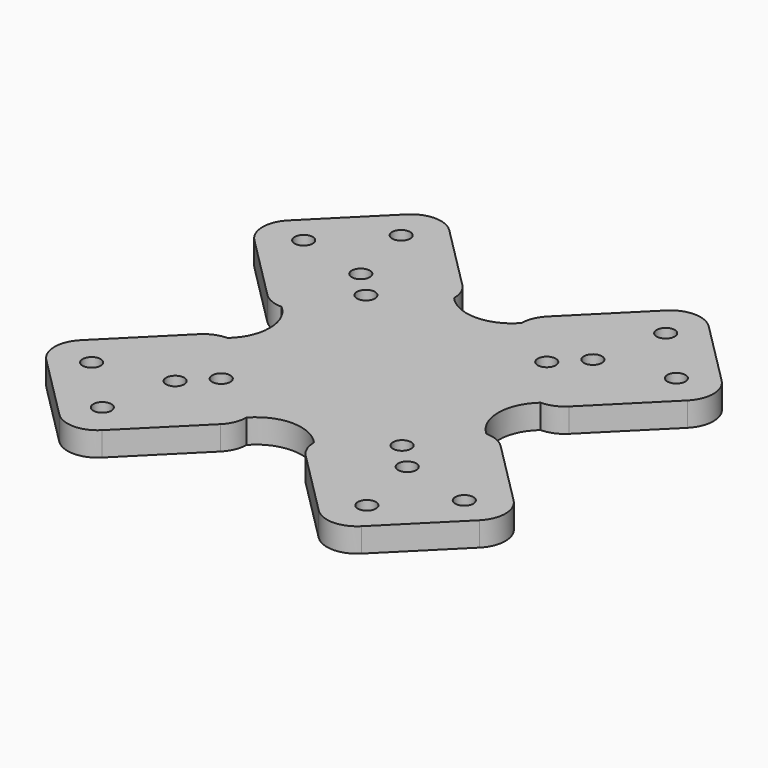
from build123d import *

# Parameters (mm, degrees)
F0_R     = 1.5
F1_DEPTH = 4


with BuildPart() as f1:
    # F0 (on Top) → F1 (new body)
    with BuildSketch(Plane.XY):
        with BuildLine():
            ThreePointArc((-21.506534, -5.585449), (-23.420395, -5.963817), (-25.043776, -7.045787))
            Line((-25.043776, -7.045787), (-35.985417, -17.961908))
            ThreePointArc((-35.985417, -17.961908), (-37.454011, -21.495729), (-35.993673, -25.032971))
            Line((-35.993673, -25.032971), (-25.116951, -35.935122))
            ThreePointArc((-25.116951, -35.935122), (-21.583129, -37.403715), (-18.045888, -35.943378))
            Line((-18.045888, -35.943378), (-7.104246, -25.027257))
            ThreePointArc((-7.104246, -25.027257), (-6.018489, -23.406407), (-5.635653, -21.493435))
            ThreePointArc((-5.635653, -21.493435), (-0.022157, -18.977104), (5.585447, -21.506537))
            ThreePointArc((5.585447, -21.506537), (5.963815, -23.420397), (7.045784, -25.043778))
            Line((7.045784, -25.043778), (17.961905, -35.98542))
            ThreePointArc((17.961905, -35.98542), (21.495727, -37.454013), (25.032968, -35.993676))
            Line((25.032968, -35.993676), (35.93512, -25.116953))
            ThreePointArc((35.93512, -25.116953), (37.403713, -21.583131), (35.943376, -18.04589))
            Line((35.943376, -18.04589), (25.027254, -7.104248))
            ThreePointArc((25.027254, -7.104248), (23.406404, -6.018491), (21.493433, -5.635655))
            ThreePointArc((21.493433, -5.635655), (18.977102, -0.022159), (21.506534, 5.585445))
            ThreePointArc((21.506534, 5.585445), (23.420395, 5.963813), (25.043776, 7.045782))
            Line((25.043776, 7.045782), (35.985417, 17.961903))
            ThreePointArc((35.985417, 17.961903), (37.454011, 21.495725), (35.993673, 25.032966))
            Line((35.993673, 25.032966), (25.116951, 35.935117))
            ThreePointArc((25.116951, 35.935117), (21.583129, 37.40371), (18.045888, 35.943373))
            Line((18.045888, 35.943373), (7.104246, 25.027252))
            ThreePointArc((7.104246, 25.027252), (6.022131, 23.415143), (5.635711, 21.51237))
            ThreePointArc((5.635711, 21.51237), (0.025134, 18.98946), (-5.585444, 21.51237))
            ThreePointArc((-5.585444, 21.51237), (-5.96493, 23.42309), (-7.045784, 25.043773))
            Line((-7.045784, 25.043773), (-17.961905, 35.985415))
            ThreePointArc((-17.961905, 35.985415), (-21.495727, 37.454008), (-25.032968, 35.993671))
            Line((-25.032968, 35.993671), (-35.93512, 25.116948))
            ThreePointArc((-35.93512, 25.116948), (-37.403713, 21.583127), (-35.943376, 18.045885))
            Line((-35.943376, 18.045885), (-25.027254, 7.104244))
            ThreePointArc((-25.027254, 7.104244), (-23.406404, 6.018487), (-21.493433, 5.63565))
            ThreePointArc((-21.493433, 5.63565), (-18.977102, 0.022155), (-21.506534, -5.585449))
        make_face()
        with Locations((-21.992841, -30.917101)):
            Circle(F0_R, mode=Mode.SUBTRACT)
        with Locations((-30.962606, -21.926366)):
            Circle(F0_R, mode=Mode.SUBTRACT)
        with Locations((-19.25, -19.25)):
            Circle(F0_R, mode=Mode.SUBTRACT)
        with Locations((-15, -15)):
            Circle(F0_R, mode=Mode.SUBTRACT)
        with Locations((21.926366, -30.962606)):
            Circle(F0_R, mode=Mode.SUBTRACT)
        with Locations((19.25, -19.25)):
            Circle(F0_R, mode=Mode.SUBTRACT)
        with Locations((30.917101, -21.992841)):
            Circle(F0_R, mode=Mode.SUBTRACT)
        with Locations((15, -15)):
            Circle(F0_R, mode=Mode.SUBTRACT)
        with Locations((-15, 15)):
            Circle(F0_R, mode=Mode.SUBTRACT)
        with Locations((-30.917101, 21.992841)):
            Circle(F0_R, mode=Mode.SUBTRACT)
        with Locations((-19.25, 19.25)):
            Circle(F0_R, mode=Mode.SUBTRACT)
        with Locations((-21.926366, 30.962606)):
            Circle(F0_R, mode=Mode.SUBTRACT)
        with Locations((15, 15)):
            Circle(F0_R, mode=Mode.SUBTRACT)
        with Locations((19.25, 19.25)):
            Circle(F0_R, mode=Mode.SUBTRACT)
        with Locations((30.962606, 21.926366)):
            Circle(F0_R, mode=Mode.SUBTRACT)
        with Locations((21.992841, 30.917101)):
            Circle(F0_R, mode=Mode.SUBTRACT)
    extrude(amount=F1_DEPTH)


solid = f1.part
